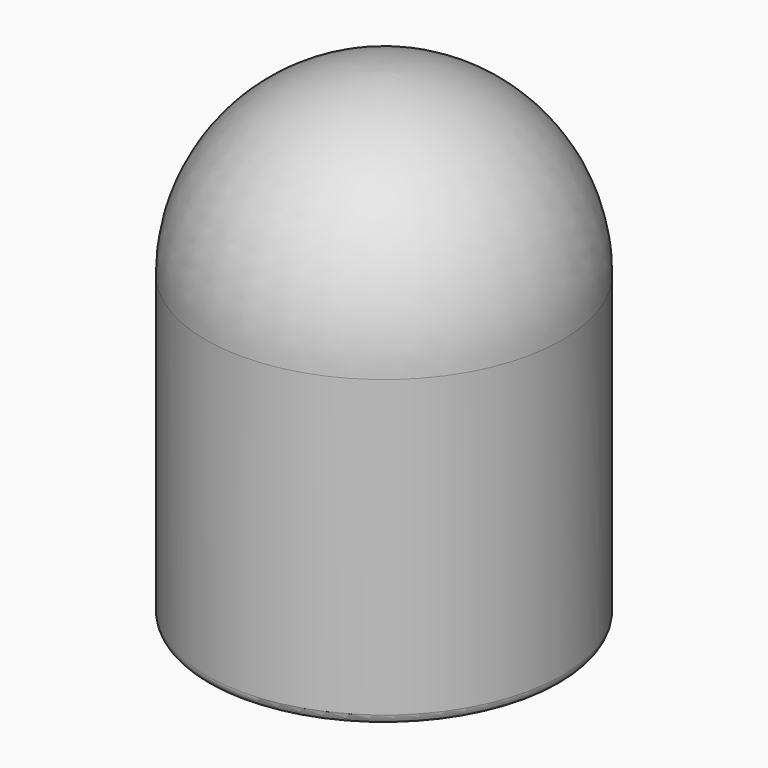
from build123d import *

# Parameters (mm, degrees)
CYLINDER001_R     = 3
CYLINDER001_DEPTH = 6
CYLINDER_R        = 3.5
CYLINDER_DEPTH    = 6
FILLET_R          = 0.2


with BuildPart() as esfera_interior:
    # Sphere001 → Sphere001 (revolve)
    with BuildSketch(Plane(origin=(0, 0, 7), x_dir=(1, 0, 0), z_dir=(0, 1, 0))):
        with BuildLine():
            ThreePointArc((0, -3), (2.12132, -2.12132), (3, 0))
            Line((3, 0), (0, 0))
            Line((0, 0), (0, -3))
        make_face()
    revolve(axis=Axis((0, 0, 7), (0, 0, -1)))


with BuildPart() as esfera:
    # Sphere → Sphere (revolve)
    with BuildSketch(Plane(origin=(0, 0, 7), x_dir=(1, 0, 0), z_dir=(0, 1, 0))):
        with BuildLine():
            ThreePointArc((0, -3.5), (2.474874, -2.474874), (3.5, 0))
            Line((3.5, 0), (0, 0))
            Line((0, 0), (0, -3.5))
        make_face()
    revolve(axis=Axis((0, 0, 7), (0, 0, -1)))

    # Cut001: cut Esfera interior
    add(esfera_interior.part, mode=Mode.SUBTRACT)


with BuildPart() as esfera_1:
    # Cut001 placement: moved
    add(esfera.part.moved(Location((0, 0, -1))))


with BuildPart() as cilindro_interior:
    # Cylinder001 → Cylinder001 (new body)
    with BuildSketch(Plane.XY):
        Circle(CYLINDER001_R)
    extrude(amount=CYLINDER001_DEPTH)


with BuildPart() as toggle_switch_cap:
    # Cylinder → Cylinder (new body)
    with BuildSketch(Plane.XY):
        Circle(CYLINDER_R)
    extrude(amount=CYLINDER_DEPTH)

    # Cut: cut Cilindro interior
    add(cilindro_interior.part, mode=Mode.SUBTRACT)

    # Fillet
    fillet_edges = [toggle_switch_cap.edges().sort_by_distance(p)[0] for p in [
        (-3.5, 0, 0),
    ]]
    fillet(fillet_edges, radius=FILLET_R)

    # Fusion: union Esfera
    add(esfera_1.part)


solid = toggle_switch_cap.part
